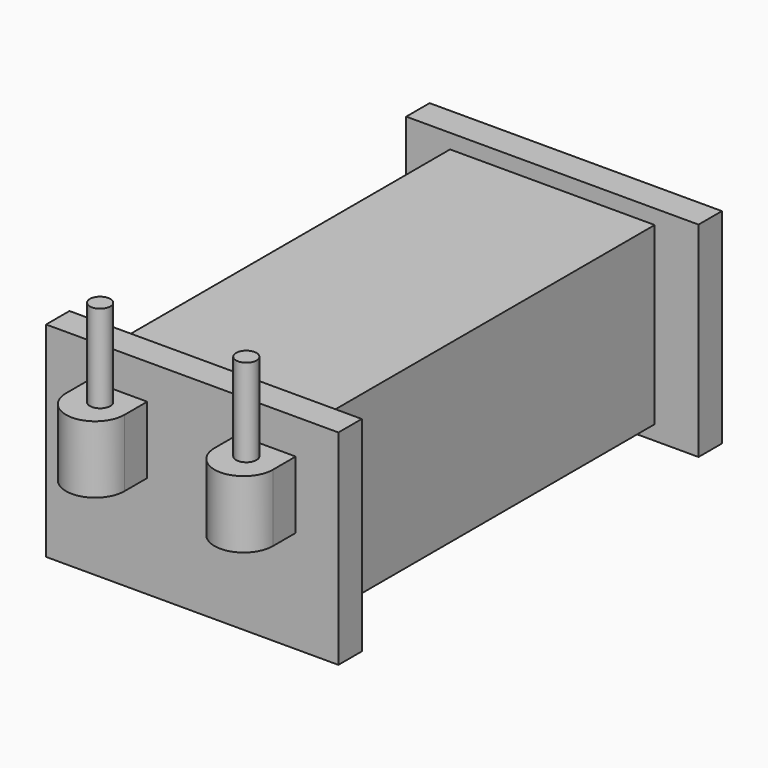
from build123d import *

# Parameters (mm, degrees)
SKETCH192_W  = 7
SKETCH192_H  = 14.4
PAD143_DEPTH = 3
SKETCH200_W  = 10
SKETCH200_H  = 7
PAD144_DEPTH = 1
SKETCH193_W  = 10
SKETCH193_H  = 7
PAD148_DEPTH = 1
PAD155_DEPTH = 2.3
SKETCH196_R  = 0.35
PAD151_DEPTH = 3


with BuildPart() as part:
    # Sketch192 → Pad143 (new body, symmetric)
    with BuildSketch(Plane.XY):
        with Locations((0, -0.37169)):
            Rectangle(SKETCH192_W, SKETCH192_H)
    extrude(amount=PAD143_DEPTH, both=True)

    # Sketch200 (on Face3 of Pad143) → Pad144 (join)
    with BuildSketch(Plane.XZ.offset(7.57169)):
        Rectangle(SKETCH200_W, SKETCH200_H)
    extrude(amount=PAD144_DEPTH)

    # Sketch193 (on Face11 of Pad144) → Pad148 (join)
    with BuildSketch(Plane(origin=(0, 6.82831, 0), x_dir=(-1, 0, 0), z_dir=(0, 1, 0))):
        Rectangle(SKETCH193_W, SKETCH193_H)
    extrude(amount=PAD148_DEPTH)

    # Sketch201 → Pad155 (join)
    with BuildSketch(Plane.XY):
        with BuildLine():
            ThreePointArc((-3.539731, -9.545275), (-2.539731, -10.545275), (-1.539731, -9.545275))
            Line((-1.539731, -8.57169), (-1.539731, -9.545275))
            Line((-3.539731, -8.57169), (-1.539731, -8.57169))
            Line((-3.539731, -8.57169), (-3.539731, -9.545275))
        make_face()
        with BuildLine():
            ThreePointArc((1.539731, -9.545275), (2.539731, -10.545275), (3.539731, -9.545275))
            Line((3.539731, -8.57169), (3.539731, -9.545275))
            Line((3.539731, -8.57169), (1.539731, -8.57169))
            Line((1.539731, -8.57169), (1.539731, -9.545275))
        make_face()
    extrude(amount=PAD155_DEPTH)

    # Sketch196 (on Face19 of Pad155) → Pad151 (join)
    with BuildSketch(Plane.XY.offset(2.3)):
        with Locations((-2.5, -9.384607)):
            Circle(SKETCH196_R)
        with Locations((2.5, -9.384607)):
            Circle(SKETCH196_R)
    extrude(amount=PAD151_DEPTH)


with BuildPart() as part_1:
    # Body026 placement: moved
    add(part.part.moved(Location((3.5, -13, 0))))


solid = part_1.part
